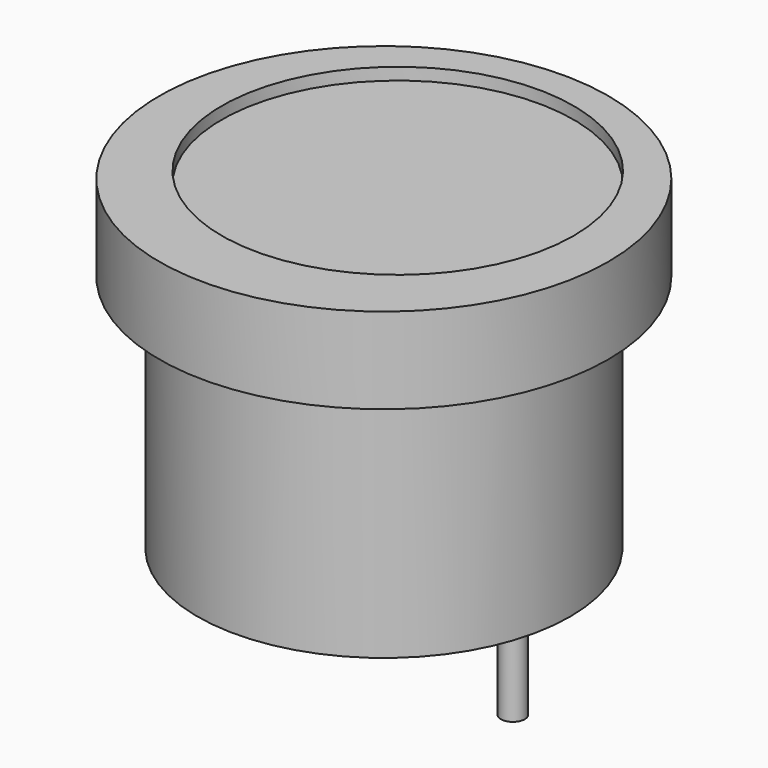
from build123d import *

# Parameters (mm, degrees)
F0_R     = 47
F1_DEPTH = 18
F2_R     = 39
F3_DEPTH = 50
F4_R     = 2.5
F5_DEPTH = 22
F6_R     = 36.831923
F7_DEPTH = 2.54


with BuildPart() as f1:
    # F0 (on Top) → F1 (new body)
    with BuildSketch(Plane.XY):
        Circle(F0_R)
    extrude(amount=F1_DEPTH)

    # F2 (on face) → F3 (join)
    with BuildSketch(Plane(origin=(0, 0, 0), x_dir=(1, 0, 0), z_dir=(0, 0, -1))):
        Circle(F2_R)
    extrude(amount=F3_DEPTH)

    # F4 (on face) → F5 (join)
    with BuildSketch(Plane(origin=(0, 0, -50), x_dir=(1, 0, 0), z_dir=(0, 0, -1))):
        with Locations((-27, 0)):
            Circle(F4_R)
        with Locations((26.999997, 0)):
            Circle(F4_R)
    extrude(amount=F5_DEPTH)

    # F6 (on face) → F7 (cut)
    with BuildSketch(Plane.XY.offset(18)):
        with Locations((0, 3.63045)):
            Circle(F6_R)
    extrude(amount=-F7_DEPTH, mode=Mode.SUBTRACT)


solid = f1.part
